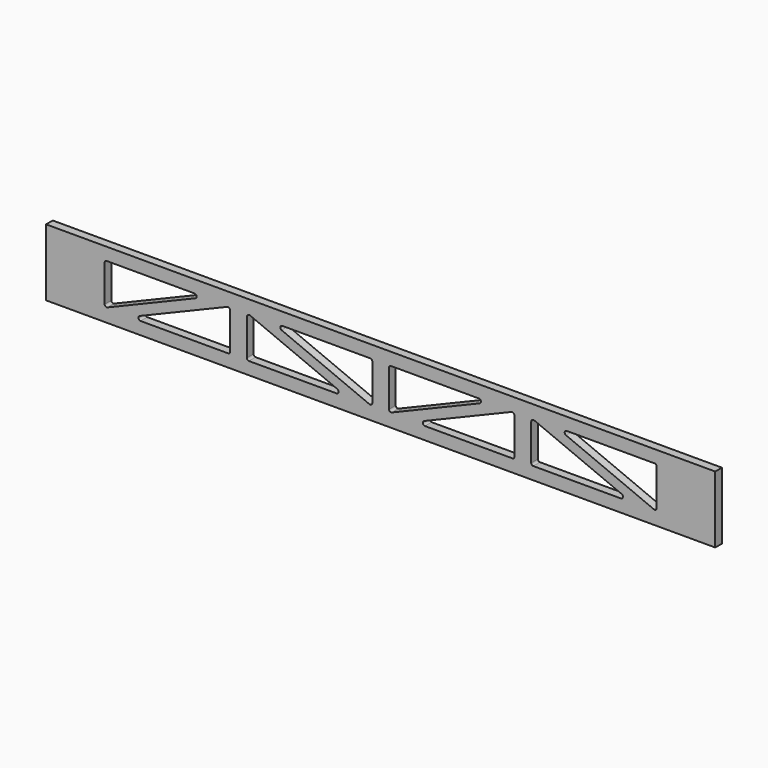
from build123d import *

# Parameters (mm, degrees)
F0_W     = 2032
F0_H     = 203.2
F1_DEPTH = 25.4


with BuildPart() as f1:
    # F0 (on Front) → F1 (new body)
    with BuildSketch(Plane.XZ):
        with Locations((914.195938, 72.488638)):
            Rectangle(F0_W, F0_H)
        with BuildLine():
            ThreePointArc((456.995938, 15.338638), (455.136066, 10.84851), (450.645938, 8.988638))
            Line((450.645938, 8.988638), (185.06811, 8.988638))
            ThreePointArc((185.06811, 8.988638), (178.621346, 14.27372), (182.539481, 21.631781))
            Line((182.539481, 21.631781), (447.329171, 131.960818))
            ThreePointArc((447.329171, 131.960818), (453.887053, 131.325311), (456.995938, 125.516307))
            Line((456.995938, 125.516307), (456.995938, 15.338638))
        make_face(mode=Mode.SUBTRACT)
        with BuildLine():
            Line((517.462705, 131.960818), (782.252394, 21.631781))
            ThreePointArc((782.252394, 21.631781), (786.170529, 14.27372), (779.723766, 8.988638))
            Line((779.723766, 8.988638), (514.145938, 8.988638))
            ThreePointArc((514.145938, 8.988638), (509.65581, 10.84851), (507.795938, 15.338638))
            Line((507.795938, 15.338638), (507.795938, 125.516307))
            ThreePointArc((507.795938, 125.516307), (510.904822, 131.325311), (517.462705, 131.960818))
        make_face(mode=Mode.SUBTRACT)
        with BuildLine():
            ThreePointArc((1310.929171, 131.960818), (1317.487053, 131.325311), (1320.595938, 125.516307))
            Line((1320.595938, 125.516307), (1320.595938, 15.338638))
            ThreePointArc((1320.595938, 15.338638), (1318.736066, 10.84851), (1314.245938, 8.988638))
            Line((1314.245938, 8.988638), (1048.66811, 8.988638))
            ThreePointArc((1048.66811, 8.988638), (1042.221346, 14.27372), (1046.139481, 21.631781))
            Line((1046.139481, 21.631781), (1310.929171, 131.960818))
        make_face(mode=Mode.SUBTRACT)
        with BuildLine():
            Line((1643.323766, 8.988638), (1377.745938, 8.988638))
            ThreePointArc((1377.745938, 8.988638), (1373.25581, 10.84851), (1371.395938, 15.338638))
            Line((1371.395938, 15.338638), (1371.395938, 125.516307))
            ThreePointArc((1371.395938, 125.516307), (1374.504822, 131.325311), (1381.062705, 131.960818))
            Line((1381.062705, 131.960818), (1645.852394, 21.631781))
            ThreePointArc((1645.852394, 21.631781), (1649.770529, 14.27372), (1643.323766, 8.988638))
        make_face(mode=Mode.SUBTRACT)
        with BuildLine():
            ThreePointArc((75.996574, 18.256617), (75.996097, 18.301169), (75.995938, 18.345723))
            Line((75.995938, 18.345723), (75.995938, 129.638638))
            ThreePointArc((75.995938, 129.638638), (77.85581, 134.128766), (82.345938, 135.988638))
            Line((82.345938, 135.988638), (349.045938, 135.988638))
            ThreePointArc((349.045938, 135.988638), (355.272625, 130.883975), (351.488245, 123.777099))
            Line((351.488245, 123.777099), (84.633247, 12.587517))
            ThreePointArc((84.633247, 12.587517), (78.810903, 13.130764), (75.996574, 18.256617))
        make_face(mode=Mode.SUBTRACT)
        with BuildLine():
            Line((615.745938, 135.988638), (882.445938, 135.988638))
            ThreePointArc((882.445938, 135.988638), (886.936066, 134.128766), (888.795938, 129.638638))
            Line((888.795938, 129.638638), (888.795938, 18.345723))
            ThreePointArc((888.795938, 18.345723), (888.795779, 18.301169), (888.795301, 18.256617))
            ThreePointArc((888.795301, 18.256617), (885.980973, 13.130764), (880.158628, 12.587517))
            Line((880.158628, 12.587517), (613.30363, 123.777099))
            ThreePointArc((613.30363, 123.777099), (609.51925, 130.883975), (615.745938, 135.988638))
        make_face(mode=Mode.SUBTRACT)
        with BuildLine():
            Line((939.595938, 18.345723), (939.595938, 129.638638))
            ThreePointArc((939.595938, 129.638638), (941.45581, 134.128766), (945.945938, 135.988638))
            Line((945.945938, 135.988638), (1212.645938, 135.988638))
            ThreePointArc((1212.645938, 135.988638), (1218.872625, 130.883975), (1215.088245, 123.777099))
            Line((1215.088245, 123.777099), (948.233247, 12.587517))
            ThreePointArc((948.233247, 12.587517), (942.410903, 13.130764), (939.596574, 18.256617))
            ThreePointArc((939.596574, 18.256617), (939.596097, 18.301169), (939.595938, 18.345723))
        make_face(mode=Mode.SUBTRACT)
        with BuildLine():
            Line((1752.395938, 129.638638), (1752.395938, 18.345723))
            ThreePointArc((1752.395938, 18.345723), (1752.395779, 18.301169), (1752.395301, 18.256617))
            ThreePointArc((1752.395301, 18.256617), (1749.580973, 13.130764), (1743.758628, 12.587517))
            Line((1743.758628, 12.587517), (1476.90363, 123.777099))
            ThreePointArc((1476.90363, 123.777099), (1473.11925, 130.883975), (1479.345938, 135.988638))
            Line((1479.345938, 135.988638), (1746.045938, 135.988638))
            ThreePointArc((1746.045938, 135.988638), (1750.536066, 134.128766), (1752.395938, 129.638638))
        make_face(mode=Mode.SUBTRACT)
    extrude(amount=F1_DEPTH)


solid = f1.part
